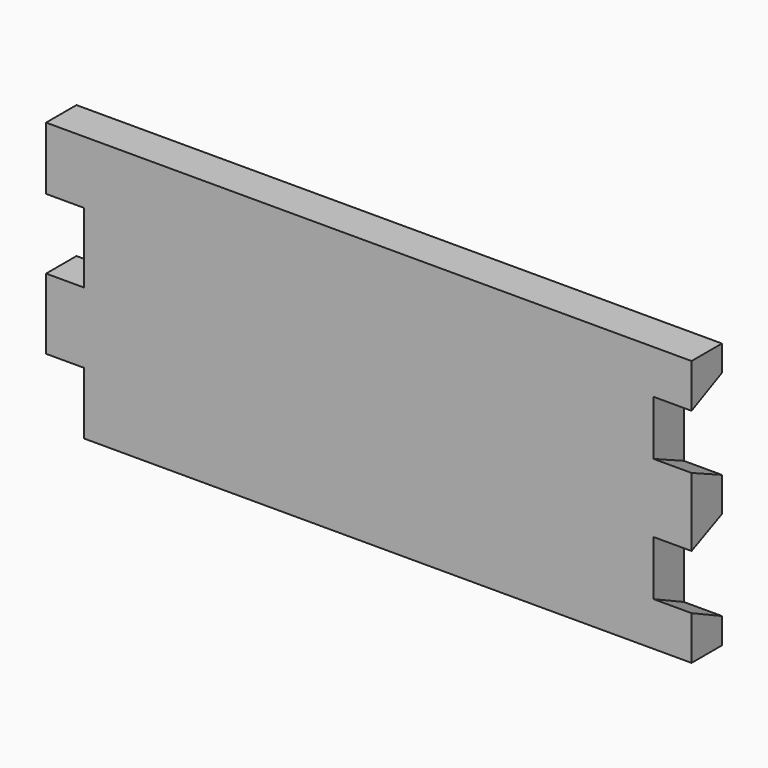
from build123d import *

# Parameters (mm, degrees)
F0_W     = 20
F0_H     = 18.615236
F0_H_2   = 18.615237
F1_DEPTH = 20
F3_DEPTH = 20


with BuildPart() as f1:
    # F0 (on Front) → F1 (new body)
    with BuildSketch(Plane.XZ):
        Polygon((-179.463843, 107.230473), (-199.463843, 107.230473), (-199.463843, 74.172214), (-179.463843, 74.172214), (-179.463843, 37.230473), (-179.463843, 18.615237), (-179.463843, 0), (-179.463843, -32.769527), (140.536157, -32.769527), (140.536157, 107.230473), align=None)
        with Locations((-189.463843, 27.922855)):
            Rectangle(F0_W, F0_H)
        with Locations((-189.463843, 9.307619)):
            Rectangle(F0_W, F0_H_2)
    extrude(amount=F1_DEPTH)

    # F2 (on face) → F3 (cut)
    with BuildSketch(Plane.YZ.offset(140.536157)):
        Polygon((-20, 84.144631), (-20, 55.335836), (0, 46.306214), (0, 93.604238), align=None)
        Polygon((0, 28.154733), (-20, 19.125111), (-20, -9.683684), (0, -19.143291), align=None)
    extrude(amount=-F3_DEPTH, mode=Mode.SUBTRACT)


solid = f1.part
